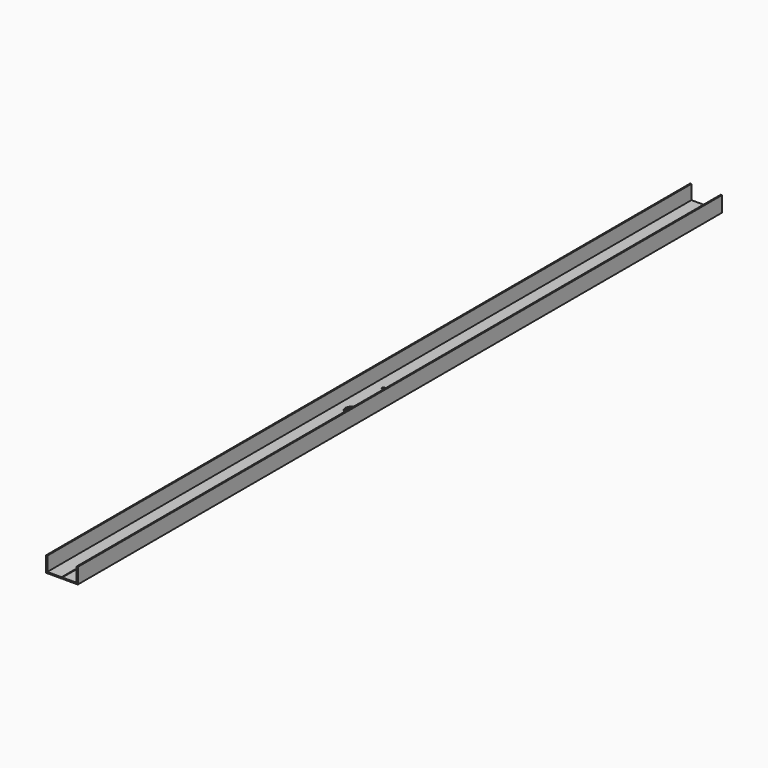
from build123d import *

# Parameters (mm, degrees)
F1_DEPTH = 495
F2_R     = 1.6
F3_DEPTH = 1.501
F4_R     = 7.5
F5_DEPTH = 1.501


with BuildPart() as f1:
    # F0 (on Front) → F1 (new body, symmetric)
    with BuildSketch(Plane.XZ):
        Polygon((-19.5, 19.05), (-19.5, 0), (-0.45, 0), (-0.45, 1.5), (-18, 1.5), (-18, 19.05), align=None)
        Polygon((0.45, 0), (19.5, 0), (19.5, 19.05), (18, 19.05), (18, 1.5), (0.45, 1.5), align=None)
    extrude(amount=F1_DEPTH, both=True)

    # F2 (on face) → F3 (cut, through all)
    with BuildSketch(Plane.XY.offset(1.5)):
        with Locations((-4.875, 5)):
            Circle(F2_R)
        with Locations((4.875, 5)):
            Circle(F2_R)
    extrude(amount=-F3_DEPTH, mode=Mode.SUBTRACT)

    # F4 (on face) → F5 (cut, through all)
    with BuildSketch(Plane.XY.offset(1.5)):
        with Locations((0, -50)):
            Circle(F4_R)
    extrude(amount=-F5_DEPTH, mode=Mode.SUBTRACT)


solid = f1.part
